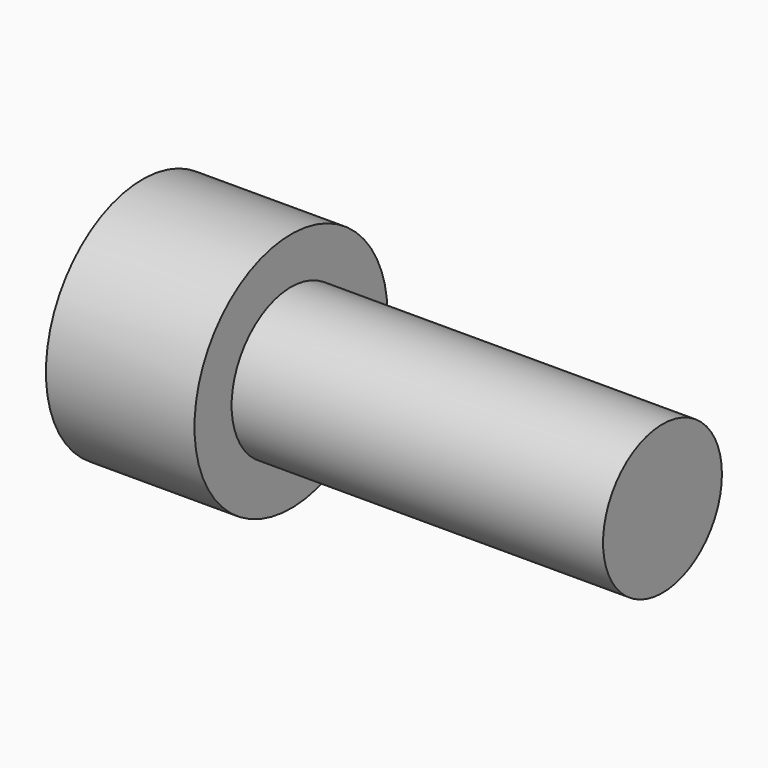
from build123d import *

# Parameters (mm, degrees)
SKETCH091_R     = 4
PAD034_DEPTH    = 28
SKETCH092_R     = 6.5
PAD035_DEPTH    = 8
POCKET034_DEPTH = 5


with BuildPart() as part:
    # Sketch091 → Pad034 (new body)
    with BuildSketch(Plane.YZ):
        Circle(SKETCH091_R)
    extrude(amount=PAD034_DEPTH)

    # Sketch092 → Pad035 (join)
    with BuildSketch(Plane.YZ):
        Circle(SKETCH092_R)
    extrude(amount=PAD035_DEPTH)

    # Sketch093 → Pocket034 (cut)
    with BuildSketch(Plane.YZ):
        Polygon((3, 1.732051), (0, 3.464102), (-3, 1.732051), (-3, -1.732051), (0, -3.464102), (3, -1.732051), align=None)
    extrude(amount=POCKET034_DEPTH, mode=Mode.SUBTRACT)


with BuildPart() as part_1:
    # Body020 placement: moved
    add(part.part.moved(Location((19.600528, -17, -16.6))))


solid = part_1.part
